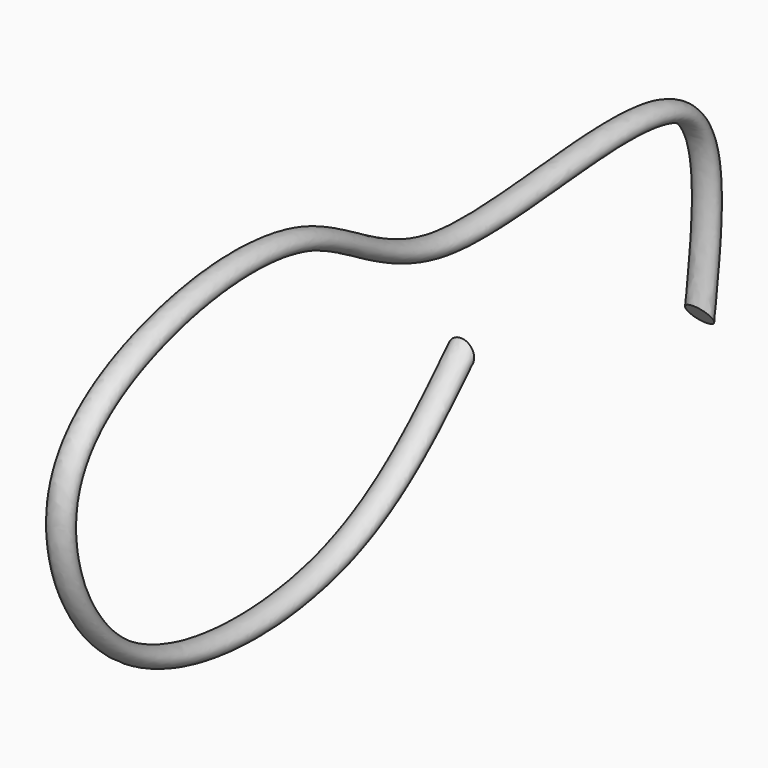
from build123d import *

# Parameters (mm, degrees)
F1_R = 6.35


with BuildPart() as f2:
    # F2: sweep along a path in F0
    with BuildLine(Plane.YZ) as f2_path:
        add(Plane.YZ * Edge.make_bspline(
            [(0, 0), (-21.6581856049, -22.3046649965), (-68.4473718807, -70.4904707876), (-215.5993473977, -65.9681396934), (-257.1495769359, 41.8519177743), (-192.9966373173, 88.6915713212), (-87.0034565279, 100.119943257), (-22.3607082349, 28.9296311238), (160.3550191374, 82.355583846), (149.0080364083, -3.8602120345), (143.9689993858, -42.1474464238)],
            knots=[0, 0, 0, 0, 0.1227254402, 0.2651294797, 0.3828592351, 0.4850469417, 0.6090594945, 0.7289735245, 0.8796409163, 1, 1, 1, 1], degree=3))
    # F1 (on Front) → F2 (sweep)
    with BuildSketch(Plane.XZ):
        Circle(F1_R)
    sweep(path=f2_path.line)


solid = f2.part
